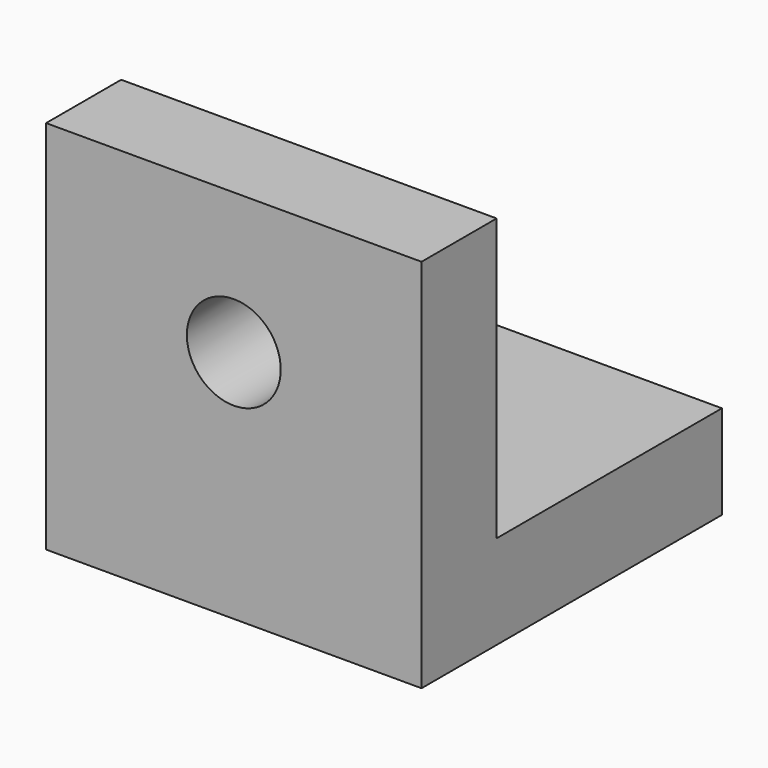
from build123d import *

# Parameters (mm, degrees)
F0_W     = 50.8
F0_H     = 38.1
F1_DEPTH = 12.7
F0_H_2   = 12.7
F2_DEPTH = 50.8
F3_R     = 6.35
F4_DEPTH = 25.4


with BuildPart() as f1:
    # F0 (on Top) → F1 (new body)
    with BuildSketch(Plane.XY):
        with Locations((-14.522364, 1.640308)):
            Rectangle(F0_W, F0_H)
    extrude(amount=F1_DEPTH)

    # F0 (on Top) → F2 (join)
    with BuildSketch(Plane.XY):
        with Locations((-14.522364, -23.759692)):
            Rectangle(F0_W, F0_H_2)
    extrude(amount=F2_DEPTH)

    # F3 (on face) → F4 (cut)
    with BuildSketch(Plane(origin=(0, -17.409692, 0), x_dir=(-1, 0, 0), z_dir=(0, 1, 0))):
        with Locations((14.522364, 31.75)):
            Circle(F3_R)
    extrude(amount=-F4_DEPTH, mode=Mode.SUBTRACT)


solid = f1.part
